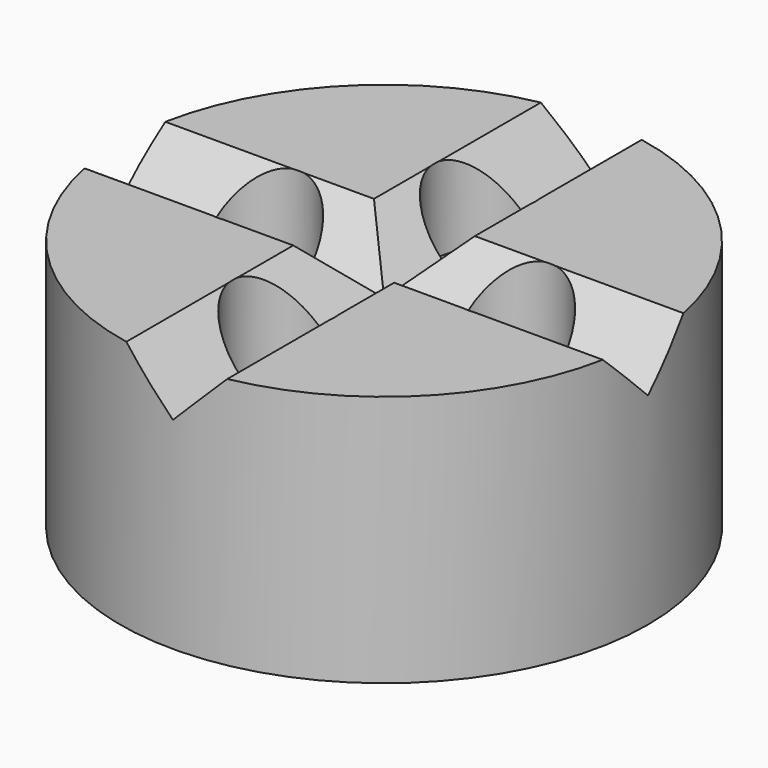
from build123d import *

# Parameters (mm, degrees)
F0_R      = 19.939
F1_DEPTH  = 19.05
F3_R      = 6.3754
F4_DEPTH  = 12.7
F5_R      = 3.8354
F6_DEPTH  = 6.351
F8_DEPTH  = 38.1
F10_DEPTH = 38.1


with BuildPart() as f1:
    # F0 (on Top) → F1 (new body)
    with BuildSketch(Plane.XY):
        Circle(F0_R)
    extrude(amount=F1_DEPTH)

    # F3 (on face) → F4 (cut)
    with BuildSketch(Plane(origin=(0, 0, 0), x_dir=(1, 0, 0), z_dir=(0, 0, -1))):
        with Locations((-9.519071, 0)):
            Circle(F3_R)
        with Locations((0, 9.519071)):
            Circle(F3_R)
        with Locations((9.519071, 0)):
            Circle(F3_R)
        with Locations((0, -9.519071)):
            Circle(F3_R)
    extrude(amount=-F4_DEPTH, mode=Mode.SUBTRACT)

    # F5 (on face) → F6 (cut, through all)
    with BuildSketch(Plane(origin=(0, 0, 12.7), x_dir=(1, 0, 0), z_dir=(0, 0, -1))):
        with Locations((0, 9.519071)):
            Circle(F5_R)
        with Locations((-9.519071, 0)):
            Circle(F5_R)
        with Locations((0, -9.519071)):
            Circle(F5_R)
        with Locations((9.519071, 0)):
            Circle(F5_R)
    extrude(amount=-F6_DEPTH, mode=Mode.SUBTRACT)

    # F7 (on Front) → F8 (cut, symmetric)
    with BuildSketch(Plane.XZ):
        Polygon((-8.64362, 23.88362), (0, 15.24), (8.64362, 23.88362), align=None)
    extrude(amount=F8_DEPTH, both=True, mode=Mode.SUBTRACT)

    # F9 (on Right) → F10 (cut, symmetric)
    with BuildSketch(Plane.YZ):
        Polygon((-11.610578, 26.850578), (0, 15.24), (11.610578, 26.850578), align=None)
    extrude(amount=F10_DEPTH, both=True, mode=Mode.SUBTRACT)


solid = f1.part
